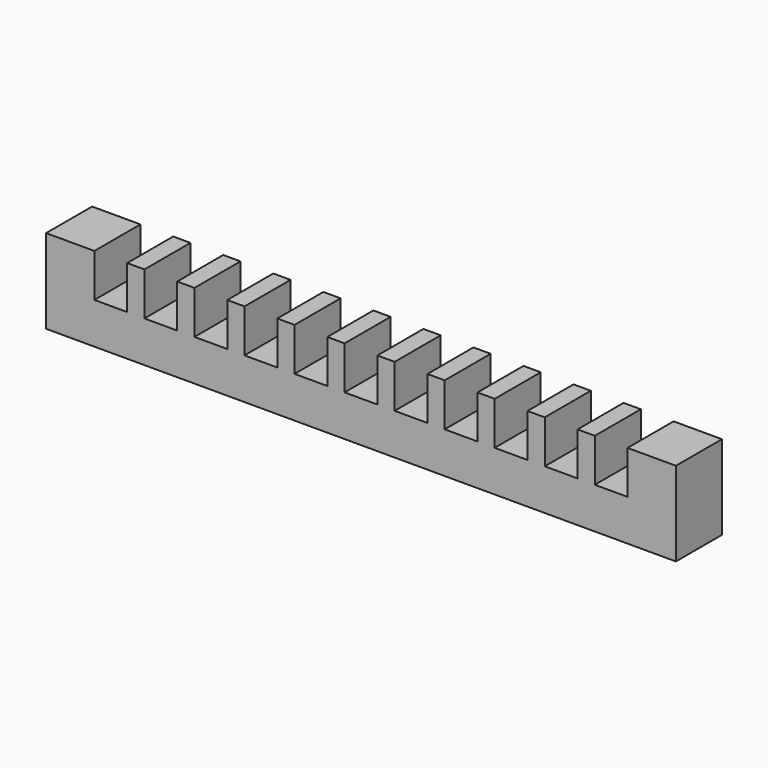
from build123d import *

# Parameters (mm, degrees)
F0_W     = 100
F0_H     = 146.5
F1_DEPTH = 1095
F2_W     = 57
F2_H     = 75
F3_DEPTH = 100


with BuildPart() as f1:
    # F0 (on Right) → F1 (new body)
    with BuildSketch(Plane.YZ):
        with Locations((0, 35.285627)):
            Rectangle(F0_W, F0_H)
    extrude(amount=F1_DEPTH)

    # F2 (on face) → F3 (cut, through all)
    with BuildSketch(Plane.XZ.offset(50)):
        with Locations((112.5, 71.035627)):
            Rectangle(F2_W, F2_H)
        with Locations((199.5, 71.035627)):
            Rectangle(F2_W, F2_H)
        with Locations((286.5, 71.035627)):
            Rectangle(F2_W, F2_H)
        with Locations((373.5, 71.035627)):
            Rectangle(F2_W, F2_H)
        with Locations((460.5, 71.035627)):
            Rectangle(F2_W, F2_H)
        with Locations((547.5, 71.035627)):
            Rectangle(F2_W, F2_H)
        with Locations((634.5, 71.035627)):
            Rectangle(F2_W, F2_H)
        with Locations((721.5, 71.035627)):
            Rectangle(F2_W, F2_H)
        with Locations((808.5, 71.035627)):
            Rectangle(F2_W, F2_H)
        with Locations((895.5, 71.035627)):
            Rectangle(F2_W, F2_H)
        with Locations((982.5, 71.035627)):
            Rectangle(F2_W, F2_H)
    extrude(amount=-F3_DEPTH, mode=Mode.SUBTRACT)


solid = f1.part
